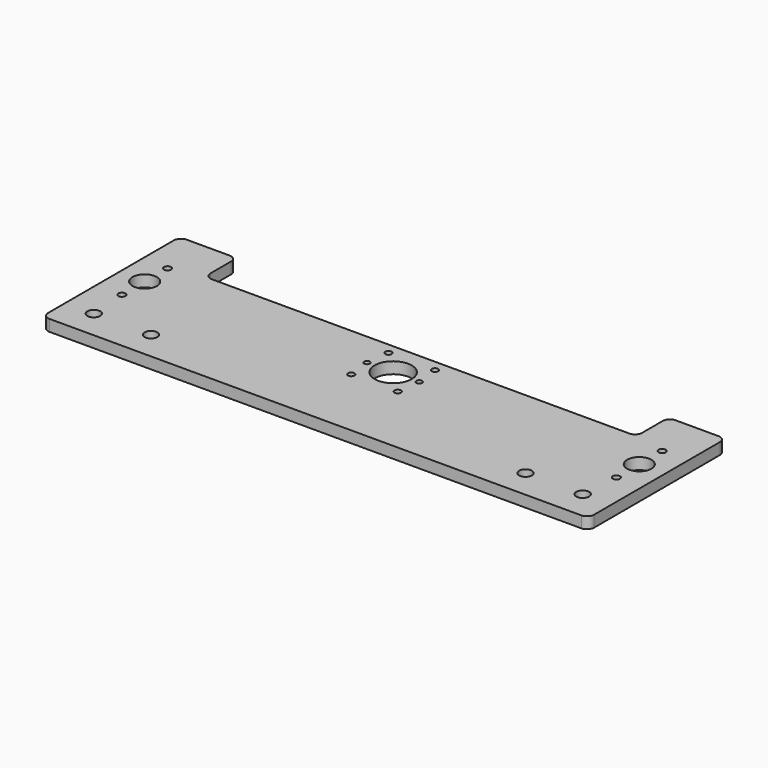
from build123d import *

# Parameters (mm, degrees)
F0_R     = 4.5
F0_R_2   = 2.5
F0_R_3   = 2.25
F0_R_4   = 8.5
F0_R_5   = 2
F0_R_6   = 13
F1_DEPTH = 8
F2_DEPTH = 25
F3_R     = 5


with BuildPart() as f1:
    # F0 (on Top) → F1 (new body)
    with BuildSketch(Plane.XY):
        Polygon((0, 120), (0, 0), (382, 0), (382, 120), (342, 120), (342, 92), (40, 92), (40, 120), align=None)
        with Locations((20, 20)):
            Circle(F0_R, mode=Mode.SUBTRACT)
        with Locations((60, 20)):
            Circle(F0_R, mode=Mode.SUBTRACT)
        with Locations((18, 47)):
            Circle(F0_R_2, mode=Mode.SUBTRACT)
        with Locations((174.736544, 51.736544)):
            Circle(F0_R_3, mode=Mode.SUBTRACT)
        with Locations((322, 20)):
            Circle(F0_R, mode=Mode.SUBTRACT)
        with Locations((362, 20)):
            Circle(F0_R, mode=Mode.SUBTRACT)
        with Locations((207.263456, 51.736544)):
            Circle(F0_R_3, mode=Mode.SUBTRACT)
        with Locations((364, 47)):
            Circle(F0_R_2, mode=Mode.SUBTRACT)
        with Locations((18, 67)):
            Circle(F0_R_4, mode=Mode.SUBTRACT)
        with Locations((18, 87)):
            Circle(F0_R_2, mode=Mode.SUBTRACT)
        with Locations((172.75, 68)):
            Circle(F0_R_5, mode=Mode.SUBTRACT)
        with Locations((174.736544, 84.263456)):
            Circle(F0_R_3, mode=Mode.SUBTRACT)
        with Locations((191, 68)):
            Circle(F0_R_6, mode=Mode.SUBTRACT)
        with Locations((209.25, 68)):
            Circle(F0_R_5, mode=Mode.SUBTRACT)
        with Locations((207.263456, 84.263456)):
            Circle(F0_R_3, mode=Mode.SUBTRACT)
        with Locations((364, 67)):
            Circle(F0_R_4, mode=Mode.SUBTRACT)
        with Locations((364, 87)):
            Circle(F0_R_2, mode=Mode.SUBTRACT)
    extrude(amount=F1_DEPTH)

    # F0 (on Top) → F2 (cut)
    with BuildSketch(Plane.XY):
        Polygon((0, 120), (0, 0), (382, 0), (382, 120), (342, 120), (342, 92), (40, 92), (40, 120), align=None)
        with Locations((20, 20)):
            Circle(F0_R, mode=Mode.SUBTRACT)
        with Locations((60, 20)):
            Circle(F0_R, mode=Mode.SUBTRACT)
        with Locations((18, 47)):
            Circle(F0_R_2, mode=Mode.SUBTRACT)
        with Locations((174.736544, 51.736544)):
            Circle(F0_R_3, mode=Mode.SUBTRACT)
        with Locations((322, 20)):
            Circle(F0_R, mode=Mode.SUBTRACT)
        with Locations((362, 20)):
            Circle(F0_R, mode=Mode.SUBTRACT)
        with Locations((207.263456, 51.736544)):
            Circle(F0_R_3, mode=Mode.SUBTRACT)
        with Locations((364, 47)):
            Circle(F0_R_2, mode=Mode.SUBTRACT)
        with Locations((18, 67)):
            Circle(F0_R_4, mode=Mode.SUBTRACT)
        with Locations((18, 87)):
            Circle(F0_R_2, mode=Mode.SUBTRACT)
        with Locations((172.75, 68)):
            Circle(F0_R_5, mode=Mode.SUBTRACT)
        with Locations((174.736544, 84.263456)):
            Circle(F0_R_3, mode=Mode.SUBTRACT)
        with Locations((191, 68)):
            Circle(F0_R_6, mode=Mode.SUBTRACT)
        with Locations((209.25, 68)):
            Circle(F0_R_5, mode=Mode.SUBTRACT)
        with Locations((207.263456, 84.263456)):
            Circle(F0_R_3, mode=Mode.SUBTRACT)
        with Locations((364, 67)):
            Circle(F0_R_4, mode=Mode.SUBTRACT)
        with Locations((364, 87)):
            Circle(F0_R_2, mode=Mode.SUBTRACT)
    extrude(amount=-F2_DEPTH, mode=Mode.SUBTRACT)

    # F3
    f3_edges = [f1.edges().sort_by_distance(p)[0] for p in [
        (382, 0, 4),
        (382, 120, 4),
        (342, 120, 4),
        (342, 92, 4),
        (40, 92, 4),
        (40, 120, 4),
        (0, 120, 4),
        (0, 0, 4),
    ]]
    fillet(f3_edges, radius=F3_R)


solid = f1.part
